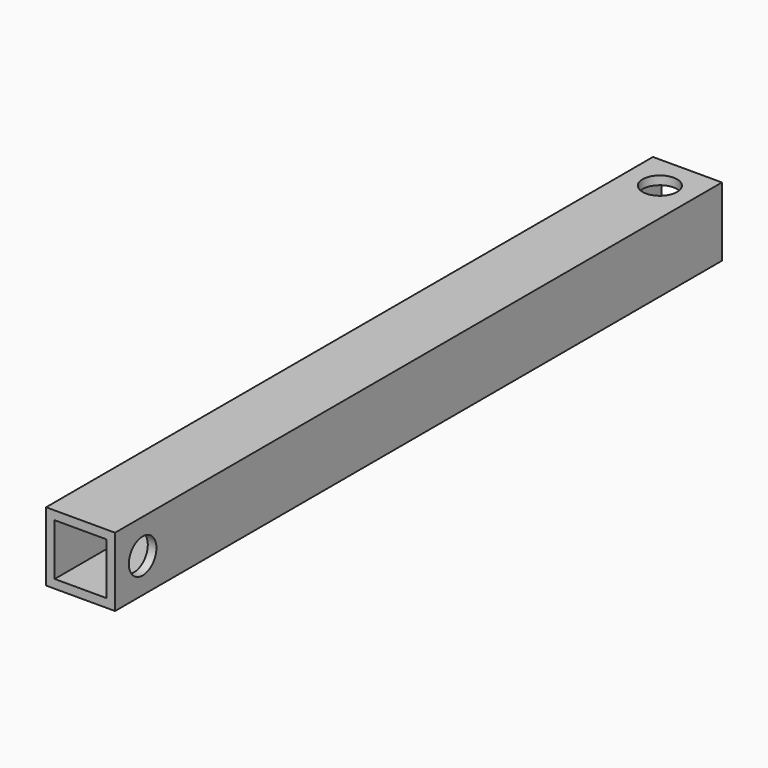
from build123d import *

# Parameters (mm, degrees)
F0_W     = 25.4
F0_H     = 25.4
F0_W_2   = 19.05
F0_H_2   = 19.05
F1_DEPTH = 279.4
F3_D     = 12.7
F3_DEPTH = 3.176
F5_D     = 12.7
F7_D     = 12.7
F7_DEPTH = 3.176


with BuildPart() as f1:
    # F0 (on Front) → F1 (new body)
    with BuildSketch(Plane.XZ):
        with Locations((-9.525, 9.525)):
            Rectangle(F0_W, F0_H)
        with Locations((-9.525, 9.525)):
            Rectangle(F0_W_2, F0_H_2, mode=Mode.SUBTRACT)
    extrude(amount=F1_DEPTH)

    # F3 (through all, one way)
    with BuildSketch(Plane.XY):
        with Locations((-9.525, -12.7)):
            Circle(F3_D / 2)
    extrude(amount=-F3_DEPTH, mode=Mode.SUBTRACT)

    # F5 (through all)
    with Locations(Plane(origin=(0, 0, 0), x_dir=(1, 0, 0), z_dir=(0, 0, -1))):
        with Locations((-9.525, 12.7)):
            Hole(F5_D / 2)

    # F7 (through all, one way)
    with BuildSketch(Plane(origin=(0, 0, 0), x_dir=(0, 1, 0), z_dir=(-1, 0, 0))):
        with Locations((-266.7, -9.525)):
            Circle(F7_D / 2)
    extrude(amount=-F7_DEPTH, mode=Mode.SUBTRACT)


solid = f1.part
